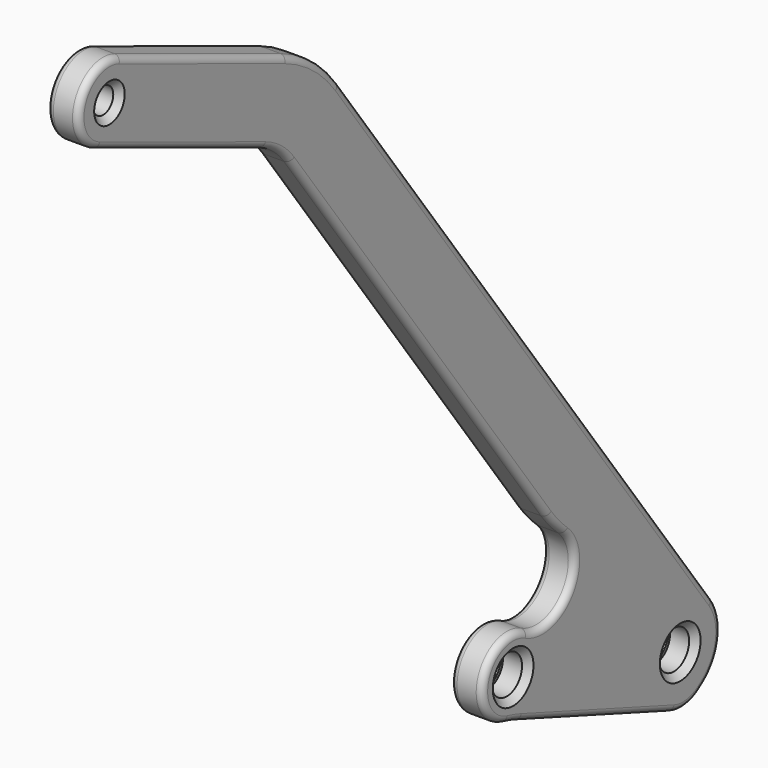
from build123d import *

# Parameters (mm, degrees)
F0_R     = 3
F0_R_2   = 2
F1_DEPTH = 5
F2_R     = 1
F3_SIZE  = 1


with BuildPart() as f1:
    # F0 (on Right) → F1 (new body)
    with BuildSketch(Plane.YZ):
        with BuildLine():
            ThreePointArc((57.72593, -60.441806), (60.927082, -55.222327), (59.49991, -49.268042))
            Line((59.49991, -49.268042), (-13.845659, 51.761887))
            ThreePointArc((-13.845659, 51.761887), (-18.475487, 56.562027), (-24.247485, 59.902791))
            Line((-24.247485, 59.902791), (-56.768679, 73.091937))
            ThreePointArc((-56.768679, 73.091937), (-64.583772, 69.786739), (-61.278574, 61.971647))
            Line((-61.278574, 61.971647), (-28.757379, 48.7825))
            ThreePointArc((-28.757379, 48.7825), (-25.87138, 47.112118), (-23.556466, 44.712049))
            Line((-23.556466, 44.712049), (26.902381, -24.792543))
            ThreePointArc((26.902381, -24.792543), (28.464555, -26.725344), (30.218225, -28.486239))
            ThreePointArc((30.218225, -28.486239), (31.154485, -36.797105), (23.024955, -38.761238))
            ThreePointArc((23.024955, -38.761238), (14.604776, -41.953407), (18.827654, -49.906813))
            ThreePointArc((18.827654, -49.906813), (20.17817, -50.271255), (21.505159, -50.713759))
            Line((21.505159, -50.713759), (51.487555, -61.692687))
            ThreePointArc((51.487555, -61.692687), (54.378812, -62.001114), (57.075581, -60.913946))
            Line((57.075581, -60.913946), (57.72593, -60.441806))
        make_face()
        with Locations((20.221904, -44.068756)):
            Circle(F0_R, mode=Mode.SUBTRACT)
        with Locations((53.026038, -53.967934)):
            Circle(F0_R, mode=Mode.SUBTRACT)
        with Locations((-59.023626, 67.531792)):
            Circle(F0_R_2, mode=Mode.SUBTRACT)
    extrude(amount=F1_DEPTH)

    # F2
    f2_edges = [f1.edges().sort_by_distance(p)[0] for p in [
        (0, -40.508082, 66.497364),
        (5, -40.508082, 66.497364),
    ]]
    fillet(f2_edges, radius=F2_R)

    # F3
    f3_edges = [f1.edges().sort_by_distance(p)[0] for p in [
        (5, 17.221904, -44.068756),
        (0, 17.221904, -44.068756),
        (5, 50.026038, -53.967934),
        (0, 50.026038, -53.967934),
        (0, -61.023626, 67.531792),
        (5, -61.023626, 67.531792),
    ]]
    chamfer(f3_edges, length=F3_SIZE)


solid = f1.part
